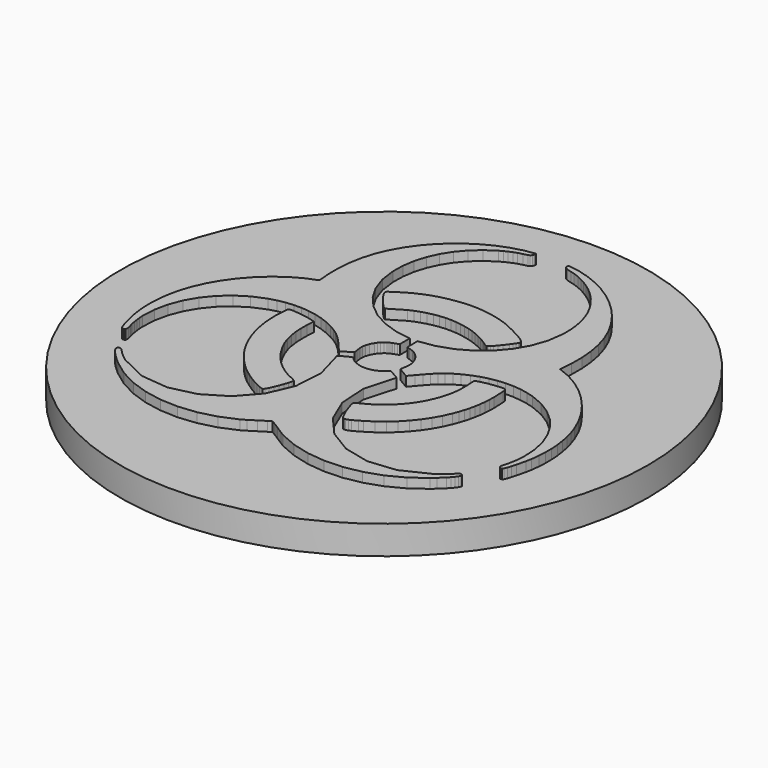
from build123d import *

# Parameters (mm, degrees)
F0_R     = 27.63697
F1_DEPTH = 3
F2_DEPTH = 4


with BuildPart() as f1:
    # F0 (on Top) → F1 (new body)
    with BuildSketch(Plane.XY):
        with Locations((0, -2.31015)):
            Circle(F0_R)
        Polygon((-4.0678, -12.78605), (-4.2083, -12.95365), (-4.6141, -12.82115), (-5.0758, -12.61135), (-5.5709, -12.34255), (-6.0773, -12.03275), (-6.5724, -11.70045), (-7.0339, -11.36375), (-7.4394, -11.04085), (-7.7666, -10.75005), (-8.158, -10.36405), (-8.5195, -9.98235), (-8.8548, -9.59865), (-9.1678, -9.20685), (-9.462, -8.80075), (-9.7412, -8.37425), (-10.0092, -7.92105), (-10.2695, -7.43505), (-10.5888, -6.74735), (-10.864, -6.02315), (-11.0928, -5.27115), (-11.2726, -4.50015), (-11.4012, -3.71865), (-11.4761, -2.93565), (-11.4949, -2.15975), (-11.4553, -1.39965), (-11.4369, -0.98755), (-11.4008, -0.71755), (-11.3427, -0.63335), (-11.24, -0.58155), (-11.0794, -0.56125), (-10.8475, -0.57145), (-10.1953, -0.63745), (-9.6146, -0.71845), (-9.3305, -0.77125), (-9.0395, -0.83575), (-8.7334, -0.91445), (-8.4039, -1.01025), (-8.4429, -1.84595), (-8.4465, -2.62525), (-8.4041, -3.36205), (-8.3049, -4.07025), (-8.1385, -4.76385), (-7.8941, -5.45675), (-7.5611, -6.16275), (-7.129, -6.89575), (-6.9454, -7.16865), (-6.7533, -7.43235), (-6.5523, -7.68705), (-6.3422, -7.93295), (-6.1226, -8.17035), (-5.8932, -8.39975), (-5.6538, -8.62115), (-5.4039, -8.83495), (-4.9871, -9.15835), (-4.6176, -9.41005), (-4.2905, -9.60425), (-4.0009, -9.75525), (-3.7437, -9.87735), (-3.514, -9.98475), (-3.3069, -10.09175), (-3.1174, -10.21255), (-3.1505, -10.44075), (-3.2414, -10.78435), (-3.376, -11.20205), (-3.5401, -11.65235), (-3.7196, -12.09405), (-3.9002, -12.48575), align=None, mode=Mode.SUBTRACT)
        Polygon((-2.2092, -7.81305), (-3.1174, -4.56255), (-2.518, -4.22535), (-2.1541, -4.03765), (-1.9516, -3.97525), (-1.8364, -4.01415), (-1.7344, -4.13025), (-1.5715, -4.29945), (-1.2735, -4.49775), (-0.7664, -4.70095), (-0.5612, -4.75635), (-0.3578, -4.79455), (-0.1556, -4.81575), (0.0458, -4.82015), (0.247, -4.80795), (0.4484, -4.77945), (0.6506, -4.73475), (0.8541, -4.67415), (1.0622, -4.58945), (1.2432, -4.48925), (1.4011, -4.37975), (1.54, -4.26715), (1.7772, -4.05725), (1.9874, -3.90905), (3.12, -4.56255), (2.2047, -7.79225), (2.3985, -10.78755), (3.5115, -13.40705), (5.3538, -15.50965), (7.7356, -16.95425), (10.467, -17.59945), (13.358, -17.30415), (16.2189, -15.92725), (16.4897, -15.72625), (16.7444, -15.51975), (16.9918, -15.30495), (17.241, -15.07895), (17.4731, -14.82385), (17.6984, -14.60375), (17.7577, -14.57755), (17.8244, -14.56485), (17.893, -14.56675), (17.9579, -14.58405), (18.0133, -14.61755), (18.0537, -14.66835), (18.0734, -14.73725), (18.0668, -14.82525), (17.9796, -15.02455), (17.8098, -15.26655), (17.5801, -15.53515), (17.3135, -15.81425), (16.761, -16.34005), (16.3357, -16.71535), (14.7982, -17.83635), (13.1263, -18.70015), (11.3548, -19.30345), (9.5187, -19.64285), (7.6528, -19.71495), (5.7921, -19.51665), (3.9715, -19.04455), (2.2258, -18.29525), (1.7514, -18.00515), (1.0333, -17.54355), (0.671, -17.31275), (0.3534, -17.11625), (0.1157, -16.97995), (-0.0067, -16.92955), (-0.3532, -17.12235), (-1.045, -17.55765), (-1.781, -18.02505), (-2.2604, -18.31405), (-4.0123, -19.05695), (-5.8348, -19.52315), (-7.6942, -19.71595), (-9.5568, -19.63845), (-11.3887, -19.29395), (-13.1563, -18.68545), (-14.8257, -17.81625), (-16.3633, -16.68955), (-16.7904, -16.31295), (-17.337, -15.79155), (-17.599, -15.51405), (-17.8236, -15.24545), (-17.9884, -15.00065), (-18.0708, -14.79465), (-18.072, -14.71475), (-18.0463, -14.65275), (-17.9999, -14.60805), (-17.9387, -14.58005), (-17.8687, -14.56825), (-17.7959, -14.57205), (-17.7264, -14.59095), (-17.6662, -14.62425), (-17.4436, -14.85165), (-17.2099, -15.10475), (-16.9631, -15.32605), (-16.7193, -15.53775), (-16.4688, -15.74195), (-16.202, -15.94085), (-13.3622, -17.30985), (-10.4837, -17.60625), (-7.758, -16.96745), (-5.3763, -15.53115), (-3.53, -13.43495), (-2.4106, -10.81635), align=None, mode=Mode.SUBTRACT)
        Polygon((8.4427, -1.65055), (8.4064, -1.01025), (8.9678, -0.84985), (9.4876, -0.73105), (10.0145, -0.64585), (10.5971, -0.58655), (10.9437, -0.54945), (11.203, -0.55535), (11.2977, -0.60095), (11.3677, -0.68895), (11.4123, -0.83005), (11.4303, -1.03475), (11.4842, -2.26895), (11.4716, -2.84805), (11.4337, -3.40865), (11.3697, -3.95505), (11.2793, -4.49165), (11.1616, -5.02285), (11.0162, -5.55305), (10.8425, -6.08675), (10.6399, -6.62815), (10.2561, -7.47995), (9.7967, -8.29975), (9.2677, -9.08155), (8.675, -9.81925), (8.0247, -10.50685), (7.3227, -11.13835), (6.575, -11.70765), (5.7875, -12.20875), (5.4368, -12.42285), (4.9258, -12.70705), (4.6631, -12.82355), (4.424, -12.89525), (4.2295, -12.90145), (4.101, -12.82125), (3.9914, -12.64275), (3.8786, -12.42925), (3.7658, -12.19115), (3.656, -11.93895), (3.4583, -11.43475), (3.3107, -11.00085), (3.2076, -10.66835), (3.1478, -10.44215), (3.1403, -10.29265), (3.1938, -10.19045), (3.5195, -10.01035), (4.1958, -9.66615), (4.7927, -9.29005), (5.3577, -8.86825), (5.8869, -8.40305), (6.3764, -7.89645), (6.8225, -7.35075), (7.2213, -6.76815), (7.569, -6.15055), (7.8618, -5.50035), (8.0854, -4.88795), (8.25, -4.32735), (8.3628, -3.79995), (8.4312, -3.28725), (8.4624, -2.77045), (8.4638, -2.23115), align=None, mode=Mode.SUBTRACT)
        Polygon((-13.8258, 4.47535), (-12.5995, 4.97545), (-12.7136, 6.36155), (-12.7162, 7.70825), (-12.6, 9.01665), (-12.3578, 10.28815), (-11.9821, 11.52385), (-11.4659, 12.72495), (-10.8017, 13.89285), (-9.9822, 15.02875), (-9.1894, 15.92315), (-8.2998, 16.75485), (-7.327, 17.51125), (-6.2846, 18.17955), (-5.1862, 18.74695), (-4.0453, 19.20065), (-2.8757, 19.52785), (-1.6909, 19.71595), (-1.7057, 19.48035), (-1.778, 19.31055), (-1.8999, 19.19235), (-2.0637, 19.11155), (-2.4851, 19.00545), (-2.9793, 18.87855), (-3.3535, 18.73925), (-3.7244, 18.58005), (-4.0872, 18.40305), (-4.4372, 18.21075), (-5.4836, 17.50345), (-6.4019, 16.68175), (-7.1863, 15.75705), (-7.8312, 14.74065), (-8.3308, 13.64385), (-8.6796, 12.47825), (-8.8718, 11.25515), (-8.9018, 9.98585), (-8.6685, 8.30815), (-8.1332, 6.75965), (-7.3284, 5.36515), (-6.2868, 4.14925), (-5.0409, 3.13645), (-3.6235, 2.35135), (-2.0671, 1.81875), (-0.4043, 1.56305), (-0.4043, 0.24845), (-0.5875, 0.16795), (-0.8407, 0.08485), (-0.9822, 0.03595), (-1.1276, -0.02125), (-1.2723, -0.08915), (-1.4119, -0.17045), (-1.6153, -0.32025), (-1.8038, -0.49195), (-1.9739, -0.68205), (-2.1222, -0.88675), (-2.3398, -1.28925), (-2.4657, -1.66095), (-2.5195, -2.00065), (-2.5208, -2.30745), (-2.4444, -2.81865), (-2.3935, -3.18655), (-3.509, -3.83525), (-3.9999, -3.25675), (-4.4391, -2.74255), (-4.8547, -2.28285), (-5.2749, -1.86755), (-5.7278, -1.48665), (-6.2417, -1.13025), (-6.8447, -0.78835), (-7.565, -0.45105), (-8.32, -0.16845), (-9.0965, 0.04225), (-9.8882, 0.18115), (-10.6892, 0.24835), (-11.493, 0.24395), (-12.2936, 0.16825), (-13.0847, 0.02115), (-13.8602, -0.19705), (-15.2114, -0.77105), (-16.423, -1.53935), (-17.4805, -2.47955), (-18.3696, -3.56955), (-19.0758, -4.78685), (-19.5849, -6.10935), (-19.8824, -7.51445), (-19.954, -8.98015), (-19.9289, -9.41255), (-19.8837, -9.81705), (-19.8213, -10.21855), (-19.7447, -10.64165), (-19.6565, -10.92985), (-19.5543, -11.32205), (-19.5427, -11.50435), (-19.5813, -11.64915), (-19.6879, -11.73535), (-19.8805, -11.74175), (-19.9896, -11.62145), (-20.1147, -11.32885), (-20.247, -10.91665), (-20.378, -10.43745), (-20.6019, -9.48885), (-20.7175, -8.90455), (-20.8144, -8.07885), (-20.8603, -7.25915), (-20.8548, -6.44515), (-20.7977, -5.63685), (-20.6886, -4.83405), (-20.5274, -4.03665), (-20.3137, -3.24435), (-20.0472, -2.45715), (-19.5157, -1.25035), (-18.8404, -0.07965), (-18.036, 1.03325), (-17.1175, 2.06685), (-16.0996, 2.99945), (-14.9975, 3.80945), align=None, mode=Mode.SUBTRACT)
        Polygon((0.4069, 0.24845), (0.4069, 1.56305), (2.0732, 1.81965), (3.6325, 2.35435), (5.0519, 3.14235), (6.2988, 4.15885), (7.3403, 5.37895), (8.1438, 6.77785), (8.6764, 8.33065), (8.9055, 10.01265), (8.9013, 10.88005), (8.8216, 11.73245), (8.6662, 12.56595), (8.4347, 13.37665), (8.1267, 14.16075), (7.7418, 14.91455), (7.2796, 15.63395), (6.7399, 16.31525), (6.3463, 16.73745), (5.9251, 17.13605), (5.4785, 17.50865), (5.0087, 17.85265), (4.5178, 18.16565), (4.008, 18.44495), (3.4813, 18.68815), (2.9401, 18.89265), (2.5125, 19.00135), (2.0461, 19.13365), (1.8548, 19.22785), (1.7215, 19.35075), (1.6688, 19.51015), (1.7192, 19.71365), (2.9108, 19.51855), (4.0804, 19.18825), (5.2167, 18.73445), (6.3082, 18.16855), (7.3435, 17.50195), (8.311, 16.74625), (9.1994, 15.91295), (9.9973, 15.01345), (10.8131, 13.88415), (11.4741, 12.71825), (11.9877, 11.51605), (12.3613, 10.27795), (12.6022, 9.00445), (12.7177, 7.69595), (12.7152, 6.35285), (12.6021, 4.97545), (13.8299, 4.47485), (15.0017, 3.80895), (16.1031, 2.99915), (17.1197, 2.06695), (18.0371, 1.03375), (18.8409, -0.07905), (19.5165, -1.24985), (20.0497, -2.45725), (20.317, -3.24455), (20.5306, -4.03685), (20.691, -4.83415), (20.7989, -5.63685), (20.8551, -6.44505), (20.8603, -7.25895), (20.8151, -8.07875), (20.7202, -8.90465), (20.6047, -9.48855), (20.38, -10.43725), (20.2486, -10.91655), (20.1161, -11.32895), (19.9914, -11.62155), (19.8831, -11.74175), (19.6898, -11.73465), (19.5831, -11.64605), (19.5448, -11.49775), (19.557, -11.31125), (19.6606, -10.91065), (19.7497, -10.61735), (19.825, -10.20095), (19.887, -9.80515), (19.9322, -9.40635), (19.9569, -8.98055), (19.884, -7.51445), (19.5861, -6.10915), (19.0773, -4.78675), (18.3716, -3.56955), (17.4833, -2.47975), (16.4263, -1.53965), (15.2148, -0.77125), (13.8628, -0.19705), (13.0852, 0.02195), (12.2937, 0.16915), (11.4941, 0.24475), (10.6918, 0.24865), (9.8925, 0.18095), (9.1016, 0.04175), (8.3248, -0.16905), (7.5677, -0.45125), (6.8483, -0.78665), (6.2453, -1.12805), (5.7309, -1.48475), (5.2774, -1.86635), (4.8568, -2.28215), (4.4414, -2.74165), (4.0034, -3.25435), (3.5149, -3.82955), (2.3987, -3.18205), (2.4478, -2.81545), (2.524, -2.31015), (2.5229, -2.00565), (2.4691, -1.66685), (2.3431, -1.29375), (2.1249, -0.88655), (1.8894, -0.57355), (1.6418, -0.33545), (1.3911, -0.15915), (1.1464, -0.03175), (0.7107, 0.12825), align=None, mode=Mode.SUBTRACT)
        Polygon((-1.5318, 9.09665), (-0.7372, 9.18325), (-0.1638, 9.21165), (0.4187, 9.20585), (1.0059, 9.16745), (1.5935, 9.09795), (2.1771, 8.99905), (2.7524, 8.87225), (3.3151, 8.71915), (3.8609, 8.54135), (4.1317, 8.43155), (4.5733, 8.23455), (5.1197, 7.97545), (5.7053, 7.67955), (6.2642, 7.37185), (6.7306, 7.07755), (7.0388, 6.82155), (7.1229, 6.62925), (7.0551, 6.48075), (6.9413, 6.29145), (6.7947, 6.07545), (6.6285, 5.84675), (6.2894, 5.40775), (6.0292, 5.08705), (5.783, 4.79195), (5.6004, 4.58935), (5.4595, 4.47075), (5.3383, 4.42805), (5.2151, 4.45265), (5.0679, 4.53625), (4.8748, 4.67055), (4.6141, 4.84725), (4.1507, 5.12775), (3.6874, 5.37065), (3.2209, 5.57825), (2.7475, 5.75335), (2.2637, 5.89835), (1.7661, 6.01595), (1.251, 6.10845), (0.715, 6.17865), (0.1633, 6.21525), (-0.3994, 6.20755), (-0.9672, 6.15815), (-1.5343, 6.06935), (-2.0948, 5.94365), (-2.643, 5.78345), (-3.1731, 5.59115), (-3.6791, 5.36925), (-5.2911, 4.39905), (-5.3922, 4.44905), (-5.5439, 4.57795), (-5.7288, 4.76285), (-5.9294, 4.98055), (-6.3087, 5.42195), (-6.5428, 5.71775), (-6.8066, 6.09445), (-6.9814, 6.37055), (-7.0743, 6.56815), (-7.0923, 6.70945), (-7.0425, 6.81665), (-6.9319, 6.91195), (-6.7675, 7.01755), (-6.5564, 7.15575), (-5.887, 7.58955), (-5.2036, 7.96795), (-4.505, 8.29295), (-3.7899, 8.56635), (-3.0568, 8.79015), (-2.3046, 8.96635), align=None, mode=Mode.SUBTRACT)
        Polygon((-12.7136, 6.36155), (-12.5995, 4.97545), (-13.8258, 4.47535), (-14.9975, 3.80945), (-16.0996, 2.99945), (-17.1175, 2.06685), (-18.036, 1.03325), (-18.8404, -0.07965), (-19.5157, -1.25035), (-20.0472, -2.45715), (-20.3137, -3.24435), (-20.5274, -4.03665), (-20.6886, -4.83405), (-20.7977, -5.63685), (-20.8548, -6.44515), (-20.8603, -7.25915), (-20.8144, -8.07885), (-20.7175, -8.90455), (-20.6019, -9.48885), (-20.378, -10.43745), (-20.247, -10.91665), (-20.1147, -11.32885), (-19.9896, -11.62145), (-19.8805, -11.74175), (-19.6879, -11.73535), (-19.5813, -11.64915), (-19.5427, -11.50435), (-19.5543, -11.32205), (-19.6565, -10.92985), (-19.7447, -10.64165), (-19.8213, -10.21855), (-19.8837, -9.81705), (-19.9289, -9.41255), (-19.954, -8.98015), (-19.8824, -7.51445), (-19.5849, -6.10935), (-19.0758, -4.78685), (-18.3696, -3.56955), (-17.4805, -2.47955), (-16.423, -1.53935), (-15.2114, -0.77105), (-13.8602, -0.19705), (-13.0847, 0.02115), (-12.2936, 0.16825), (-11.493, 0.24395), (-10.6892, 0.24835), (-9.8882, 0.18115), (-9.0965, 0.04225), (-8.32, -0.16845), (-7.565, -0.45105), (-6.8447, -0.78835), (-6.2417, -1.13025), (-5.7278, -1.48665), (-5.2749, -1.86755), (-4.8547, -2.28285), (-4.4391, -2.74255), (-3.9999, -3.25675), (-3.509, -3.83525), (-2.3935, -3.18655), (-2.4444, -2.81865), (-2.5208, -2.30745), (-2.5195, -2.00065), (-2.4657, -1.66095), (-2.3398, -1.28925), (-2.1222, -0.88675), (-1.9739, -0.68205), (-1.8038, -0.49195), (-1.6153, -0.32025), (-1.4119, -0.17045), (-1.2723, -0.08915), (-1.1276, -0.02125), (-0.9822, 0.03595), (-0.8407, 0.08485), (-0.5875, 0.16795), (-0.4043, 0.24845), (-0.4043, 1.56305), (-2.0671, 1.81875), (-3.6235, 2.35135), (-5.0409, 3.13645), (-6.2868, 4.14925), (-7.3284, 5.36515), (-8.1332, 6.75965), (-8.6685, 8.30815), (-8.9018, 9.98585), (-8.8718, 11.25515), (-8.6796, 12.47825), (-8.3308, 13.64385), (-7.8312, 14.74065), (-7.1863, 15.75705), (-6.4019, 16.68175), (-5.4836, 17.50345), (-4.4372, 18.21075), (-4.0872, 18.40305), (-3.7244, 18.58005), (-3.3535, 18.73925), (-2.9793, 18.87855), (-2.4851, 19.00545), (-2.0637, 19.11155), (-1.8999, 19.19235), (-1.778, 19.31055), (-1.7057, 19.48035), (-1.6909, 19.71595), (-2.8757, 19.52785), (-4.0453, 19.20065), (-5.1862, 18.74695), (-6.2846, 18.17955), (-7.327, 17.51125), (-8.2998, 16.75485), (-9.1894, 15.92315), (-9.9822, 15.02875), (-10.8017, 13.89285), (-11.4659, 12.72495), (-11.9821, 11.52385), (-12.3578, 10.28815), (-12.6, 9.01665), (-12.7162, 7.70825), align=None)
        Polygon((-0.1638, 9.21165), (-0.7372, 9.18325), (-1.5318, 9.09665), (-2.3046, 8.96635), (-3.0568, 8.79015), (-3.7899, 8.56635), (-4.505, 8.29295), (-5.2036, 7.96795), (-5.887, 7.58955), (-6.5564, 7.15575), (-6.7675, 7.01755), (-6.9319, 6.91195), (-7.0425, 6.81665), (-7.0923, 6.70945), (-7.0743, 6.56815), (-6.9814, 6.37055), (-6.8066, 6.09445), (-6.5428, 5.71775), (-6.3087, 5.42195), (-5.9294, 4.98055), (-5.7288, 4.76285), (-5.5439, 4.57795), (-5.3922, 4.44905), (-5.2911, 4.39905), (-3.6791, 5.36925), (-3.1731, 5.59115), (-2.643, 5.78345), (-2.0948, 5.94365), (-1.5343, 6.06935), (-0.9672, 6.15815), (-0.3994, 6.20755), (0.1633, 6.21525), (0.715, 6.17865), (1.251, 6.10845), (1.7661, 6.01595), (2.2637, 5.89835), (2.7475, 5.75335), (3.2209, 5.57825), (3.6874, 5.37065), (4.1507, 5.12775), (4.6141, 4.84725), (4.8748, 4.67055), (5.0679, 4.53625), (5.2151, 4.45265), (5.3383, 4.42805), (5.4595, 4.47075), (5.6004, 4.58935), (5.783, 4.79195), (6.0292, 5.08705), (6.2894, 5.40775), (6.6285, 5.84675), (6.7947, 6.07545), (6.9413, 6.29145), (7.0551, 6.48075), (7.1229, 6.62925), (7.0388, 6.82155), (6.7306, 7.07755), (6.2642, 7.37185), (5.7053, 7.67955), (5.1197, 7.97545), (4.5733, 8.23455), (4.1317, 8.43155), (3.8609, 8.54135), (3.3151, 8.71915), (2.7524, 8.87225), (2.1771, 8.99905), (1.5935, 9.09795), (1.0059, 9.16745), (0.4187, 9.20585), align=None)
        Polygon((2.0732, 1.81965), (0.4069, 1.56305), (0.4069, 0.24845), (0.7107, 0.12825), (1.1464, -0.03175), (1.3911, -0.15915), (1.6418, -0.33545), (1.8894, -0.57355), (2.1249, -0.88655), (2.3431, -1.29375), (2.4691, -1.66685), (2.5229, -2.00565), (2.524, -2.31015), (2.4478, -2.81545), (2.3987, -3.18205), (3.5149, -3.82955), (4.0034, -3.25435), (4.4414, -2.74165), (4.8568, -2.28215), (5.2774, -1.86635), (5.7309, -1.48475), (6.2453, -1.12805), (6.8483, -0.78665), (7.5677, -0.45125), (8.3248, -0.16905), (9.1016, 0.04175), (9.8925, 0.18095), (10.6918, 0.24865), (11.4941, 0.24475), (12.2937, 0.16915), (13.0852, 0.02195), (13.8628, -0.19705), (15.2148, -0.77125), (16.4263, -1.53965), (17.4833, -2.47975), (18.3716, -3.56955), (19.0773, -4.78675), (19.5861, -6.10915), (19.884, -7.51445), (19.9569, -8.98055), (19.9322, -9.40635), (19.887, -9.80515), (19.825, -10.20095), (19.7497, -10.61735), (19.6606, -10.91065), (19.557, -11.31125), (19.5448, -11.49775), (19.5831, -11.64605), (19.6898, -11.73465), (19.8831, -11.74175), (19.9914, -11.62155), (20.1161, -11.32895), (20.2486, -10.91655), (20.38, -10.43725), (20.6047, -9.48855), (20.7202, -8.90465), (20.8151, -8.07875), (20.8603, -7.25895), (20.8551, -6.44505), (20.7989, -5.63685), (20.691, -4.83415), (20.5306, -4.03685), (20.317, -3.24455), (20.0497, -2.45725), (19.5165, -1.24985), (18.8409, -0.07905), (18.0371, 1.03375), (17.1197, 2.06695), (16.1031, 2.99915), (15.0017, 3.80895), (13.8299, 4.47485), (12.6021, 4.97545), (12.7152, 6.35285), (12.7177, 7.69595), (12.6022, 9.00445), (12.3613, 10.27795), (11.9877, 11.51605), (11.4741, 12.71825), (10.8131, 13.88415), (9.9973, 15.01345), (9.1994, 15.91295), (8.311, 16.74625), (7.3435, 17.50195), (6.3082, 18.16855), (5.2167, 18.73445), (4.0804, 19.18825), (2.9108, 19.51855), (1.7192, 19.71365), (1.6688, 19.51015), (1.7215, 19.35075), (1.8548, 19.22785), (2.0461, 19.13365), (2.5125, 19.00135), (2.9401, 18.89265), (3.4813, 18.68815), (4.008, 18.44495), (4.5178, 18.16565), (5.0087, 17.85265), (5.4785, 17.50865), (5.9251, 17.13605), (6.3463, 16.73745), (6.7399, 16.31525), (7.2796, 15.63395), (7.7418, 14.91455), (8.1267, 14.16075), (8.4347, 13.37665), (8.6662, 12.56595), (8.8216, 11.73245), (8.9013, 10.88005), (8.9055, 10.01265), (8.6764, 8.33065), (8.1438, 6.77785), (7.3403, 5.37895), (6.2988, 4.15885), (5.0519, 3.14235), (3.6325, 2.35435), align=None)
        Polygon((8.9678, -0.84985), (8.4064, -1.01025), (8.4427, -1.65055), (8.4638, -2.23115), (8.4624, -2.77045), (8.4312, -3.28725), (8.3628, -3.79995), (8.25, -4.32735), (8.0854, -4.88795), (7.8618, -5.50035), (7.569, -6.15055), (7.2213, -6.76815), (6.8225, -7.35075), (6.3764, -7.89645), (5.8869, -8.40305), (5.3577, -8.86825), (4.7927, -9.29005), (4.1958, -9.66615), (3.5195, -10.01035), (3.1938, -10.19045), (3.1403, -10.29265), (3.1478, -10.44215), (3.2076, -10.66835), (3.3107, -11.00085), (3.4583, -11.43475), (3.656, -11.93895), (3.7658, -12.19115), (3.8786, -12.42925), (3.9914, -12.64275), (4.101, -12.82125), (4.2295, -12.90145), (4.424, -12.89525), (4.6631, -12.82355), (4.9258, -12.70705), (5.4368, -12.42285), (5.7875, -12.20875), (6.575, -11.70765), (7.3227, -11.13835), (8.0247, -10.50685), (8.675, -9.81925), (9.2677, -9.08155), (9.7967, -8.29975), (10.2561, -7.47995), (10.6399, -6.62815), (10.8425, -6.08675), (11.0162, -5.55305), (11.1616, -5.02285), (11.2793, -4.49165), (11.3697, -3.95505), (11.4337, -3.40865), (11.4716, -2.84805), (11.4842, -2.26895), (11.4303, -1.03475), (11.4123, -0.83005), (11.3677, -0.68895), (11.2977, -0.60095), (11.203, -0.55535), (10.9437, -0.54945), (10.5971, -0.58655), (10.0145, -0.64585), (9.4876, -0.73105), align=None)
        Polygon((-2.518, -4.22535), (-3.1174, -4.56255), (-2.2092, -7.81305), (-2.4106, -10.81635), (-3.53, -13.43495), (-5.3763, -15.53115), (-7.758, -16.96745), (-10.4837, -17.60625), (-13.3622, -17.30985), (-16.202, -15.94085), (-16.4688, -15.74195), (-16.7193, -15.53775), (-16.9631, -15.32605), (-17.2099, -15.10475), (-17.4436, -14.85165), (-17.6662, -14.62425), (-17.7264, -14.59095), (-17.7959, -14.57205), (-17.8687, -14.56825), (-17.9387, -14.58005), (-17.9999, -14.60805), (-18.0463, -14.65275), (-18.072, -14.71475), (-18.0708, -14.79465), (-17.9884, -15.00065), (-17.8236, -15.24545), (-17.599, -15.51405), (-17.337, -15.79155), (-16.7904, -16.31295), (-16.3633, -16.68955), (-14.8257, -17.81625), (-13.1563, -18.68545), (-11.3887, -19.29395), (-9.5568, -19.63845), (-7.6942, -19.71595), (-5.8348, -19.52315), (-4.0123, -19.05695), (-2.2604, -18.31405), (-1.781, -18.02505), (-1.045, -17.55765), (-0.3532, -17.12235), (-0.0067, -16.92955), (0.1157, -16.97995), (0.3534, -17.11625), (0.671, -17.31275), (1.0333, -17.54355), (1.7514, -18.00515), (2.2258, -18.29525), (3.9715, -19.04455), (5.7921, -19.51665), (7.6528, -19.71495), (9.5187, -19.64285), (11.3548, -19.30345), (13.1263, -18.70015), (14.7982, -17.83635), (16.3357, -16.71535), (16.761, -16.34005), (17.3135, -15.81425), (17.5801, -15.53515), (17.8098, -15.26655), (17.9796, -15.02455), (18.0668, -14.82525), (18.0734, -14.73725), (18.0537, -14.66835), (18.0133, -14.61755), (17.9579, -14.58405), (17.893, -14.56675), (17.8244, -14.56485), (17.7577, -14.57755), (17.6984, -14.60375), (17.4731, -14.82385), (17.241, -15.07895), (16.9918, -15.30495), (16.7444, -15.51975), (16.4897, -15.72625), (16.2189, -15.92725), (13.358, -17.30415), (10.467, -17.59945), (7.7356, -16.95425), (5.3538, -15.50965), (3.5115, -13.40705), (2.3985, -10.78755), (2.2047, -7.79225), (3.12, -4.56255), (1.9874, -3.90905), (1.7772, -4.05725), (1.54, -4.26715), (1.4011, -4.37975), (1.2432, -4.48925), (1.0622, -4.58945), (0.8541, -4.67415), (0.6506, -4.73475), (0.4484, -4.77945), (0.247, -4.80795), (0.0458, -4.82015), (-0.1556, -4.81575), (-0.3578, -4.79455), (-0.5612, -4.75635), (-0.7664, -4.70095), (-1.2735, -4.49775), (-1.5715, -4.29945), (-1.7344, -4.13025), (-1.8364, -4.01415), (-1.9516, -3.97525), (-2.1541, -4.03765), align=None)
        Polygon((-4.6141, -12.82115), (-4.2083, -12.95365), (-4.0678, -12.78605), (-3.9002, -12.48575), (-3.7196, -12.09405), (-3.5401, -11.65235), (-3.376, -11.20205), (-3.2414, -10.78435), (-3.1505, -10.44075), (-3.1174, -10.21255), (-3.3069, -10.09175), (-3.514, -9.98475), (-3.7437, -9.87735), (-4.0009, -9.75525), (-4.2905, -9.60425), (-4.6176, -9.41005), (-4.9871, -9.15835), (-5.4039, -8.83495), (-5.6538, -8.62115), (-5.8932, -8.39975), (-6.1226, -8.17035), (-6.3422, -7.93295), (-6.5523, -7.68705), (-6.7533, -7.43235), (-6.9454, -7.16865), (-7.129, -6.89575), (-7.5611, -6.16275), (-7.8941, -5.45675), (-8.1385, -4.76385), (-8.3049, -4.07025), (-8.4041, -3.36205), (-8.4465, -2.62525), (-8.4429, -1.84595), (-8.4039, -1.01025), (-8.7334, -0.91445), (-9.0395, -0.83575), (-9.3305, -0.77125), (-9.6146, -0.71845), (-10.1953, -0.63745), (-10.8475, -0.57145), (-11.0794, -0.56125), (-11.24, -0.58155), (-11.3427, -0.63335), (-11.4008, -0.71755), (-11.4369, -0.98755), (-11.4553, -1.39965), (-11.4949, -2.15975), (-11.4761, -2.93565), (-11.4012, -3.71865), (-11.2726, -4.50015), (-11.0928, -5.27115), (-10.864, -6.02315), (-10.5888, -6.74735), (-10.2695, -7.43505), (-10.0092, -7.92105), (-9.7412, -8.37425), (-9.462, -8.80075), (-9.1678, -9.20685), (-8.8548, -9.59865), (-8.5195, -9.98235), (-8.158, -10.36405), (-7.7666, -10.75005), (-7.4394, -11.04085), (-7.0339, -11.36375), (-6.5724, -11.70045), (-6.0773, -12.03275), (-5.5709, -12.34255), (-5.0758, -12.61135), align=None)
    extrude(amount=F1_DEPTH)

    # F0 (on Top) → F2 (join)
    with BuildSketch(Plane.XY):
        Polygon((2.0732, 1.81965), (0.4069, 1.56305), (0.4069, 0.24845), (0.7107, 0.12825), (1.1464, -0.03175), (1.3911, -0.15915), (1.6418, -0.33545), (1.8894, -0.57355), (2.1249, -0.88655), (2.3431, -1.29375), (2.4691, -1.66685), (2.5229, -2.00565), (2.524, -2.31015), (2.4478, -2.81545), (2.3987, -3.18205), (3.5149, -3.82955), (4.0034, -3.25435), (4.4414, -2.74165), (4.8568, -2.28215), (5.2774, -1.86635), (5.7309, -1.48475), (6.2453, -1.12805), (6.8483, -0.78665), (7.5677, -0.45125), (8.3248, -0.16905), (9.1016, 0.04175), (9.8925, 0.18095), (10.6918, 0.24865), (11.4941, 0.24475), (12.2937, 0.16915), (13.0852, 0.02195), (13.8628, -0.19705), (15.2148, -0.77125), (16.4263, -1.53965), (17.4833, -2.47975), (18.3716, -3.56955), (19.0773, -4.78675), (19.5861, -6.10915), (19.884, -7.51445), (19.9569, -8.98055), (19.9322, -9.40635), (19.887, -9.80515), (19.825, -10.20095), (19.7497, -10.61735), (19.6606, -10.91065), (19.557, -11.31125), (19.5448, -11.49775), (19.5831, -11.64605), (19.6898, -11.73465), (19.8831, -11.74175), (19.9914, -11.62155), (20.1161, -11.32895), (20.2486, -10.91655), (20.38, -10.43725), (20.6047, -9.48855), (20.7202, -8.90465), (20.8151, -8.07875), (20.8603, -7.25895), (20.8551, -6.44505), (20.7989, -5.63685), (20.691, -4.83415), (20.5306, -4.03685), (20.317, -3.24455), (20.0497, -2.45725), (19.5165, -1.24985), (18.8409, -0.07905), (18.0371, 1.03375), (17.1197, 2.06695), (16.1031, 2.99915), (15.0017, 3.80895), (13.8299, 4.47485), (12.6021, 4.97545), (12.7152, 6.35285), (12.7177, 7.69595), (12.6022, 9.00445), (12.3613, 10.27795), (11.9877, 11.51605), (11.4741, 12.71825), (10.8131, 13.88415), (9.9973, 15.01345), (9.1994, 15.91295), (8.311, 16.74625), (7.3435, 17.50195), (6.3082, 18.16855), (5.2167, 18.73445), (4.0804, 19.18825), (2.9108, 19.51855), (1.7192, 19.71365), (1.6688, 19.51015), (1.7215, 19.35075), (1.8548, 19.22785), (2.0461, 19.13365), (2.5125, 19.00135), (2.9401, 18.89265), (3.4813, 18.68815), (4.008, 18.44495), (4.5178, 18.16565), (5.0087, 17.85265), (5.4785, 17.50865), (5.9251, 17.13605), (6.3463, 16.73745), (6.7399, 16.31525), (7.2796, 15.63395), (7.7418, 14.91455), (8.1267, 14.16075), (8.4347, 13.37665), (8.6662, 12.56595), (8.8216, 11.73245), (8.9013, 10.88005), (8.9055, 10.01265), (8.6764, 8.33065), (8.1438, 6.77785), (7.3403, 5.37895), (6.2988, 4.15885), (5.0519, 3.14235), (3.6325, 2.35435), align=None)
        Polygon((8.9678, -0.84985), (8.4064, -1.01025), (8.4427, -1.65055), (8.4638, -2.23115), (8.4624, -2.77045), (8.4312, -3.28725), (8.3628, -3.79995), (8.25, -4.32735), (8.0854, -4.88795), (7.8618, -5.50035), (7.569, -6.15055), (7.2213, -6.76815), (6.8225, -7.35075), (6.3764, -7.89645), (5.8869, -8.40305), (5.3577, -8.86825), (4.7927, -9.29005), (4.1958, -9.66615), (3.5195, -10.01035), (3.1938, -10.19045), (3.1403, -10.29265), (3.1478, -10.44215), (3.2076, -10.66835), (3.3107, -11.00085), (3.4583, -11.43475), (3.656, -11.93895), (3.7658, -12.19115), (3.8786, -12.42925), (3.9914, -12.64275), (4.101, -12.82125), (4.2295, -12.90145), (4.424, -12.89525), (4.6631, -12.82355), (4.9258, -12.70705), (5.4368, -12.42285), (5.7875, -12.20875), (6.575, -11.70765), (7.3227, -11.13835), (8.0247, -10.50685), (8.675, -9.81925), (9.2677, -9.08155), (9.7967, -8.29975), (10.2561, -7.47995), (10.6399, -6.62815), (10.8425, -6.08675), (11.0162, -5.55305), (11.1616, -5.02285), (11.2793, -4.49165), (11.3697, -3.95505), (11.4337, -3.40865), (11.4716, -2.84805), (11.4842, -2.26895), (11.4303, -1.03475), (11.4123, -0.83005), (11.3677, -0.68895), (11.2977, -0.60095), (11.203, -0.55535), (10.9437, -0.54945), (10.5971, -0.58655), (10.0145, -0.64585), (9.4876, -0.73105), align=None)
        Polygon((-2.518, -4.22535), (-3.1174, -4.56255), (-2.2092, -7.81305), (-2.4106, -10.81635), (-3.53, -13.43495), (-5.3763, -15.53115), (-7.758, -16.96745), (-10.4837, -17.60625), (-13.3622, -17.30985), (-16.202, -15.94085), (-16.4688, -15.74195), (-16.7193, -15.53775), (-16.9631, -15.32605), (-17.2099, -15.10475), (-17.4436, -14.85165), (-17.6662, -14.62425), (-17.7264, -14.59095), (-17.7959, -14.57205), (-17.8687, -14.56825), (-17.9387, -14.58005), (-17.9999, -14.60805), (-18.0463, -14.65275), (-18.072, -14.71475), (-18.0708, -14.79465), (-17.9884, -15.00065), (-17.8236, -15.24545), (-17.599, -15.51405), (-17.337, -15.79155), (-16.7904, -16.31295), (-16.3633, -16.68955), (-14.8257, -17.81625), (-13.1563, -18.68545), (-11.3887, -19.29395), (-9.5568, -19.63845), (-7.6942, -19.71595), (-5.8348, -19.52315), (-4.0123, -19.05695), (-2.2604, -18.31405), (-1.781, -18.02505), (-1.045, -17.55765), (-0.3532, -17.12235), (-0.0067, -16.92955), (0.1157, -16.97995), (0.3534, -17.11625), (0.671, -17.31275), (1.0333, -17.54355), (1.7514, -18.00515), (2.2258, -18.29525), (3.9715, -19.04455), (5.7921, -19.51665), (7.6528, -19.71495), (9.5187, -19.64285), (11.3548, -19.30345), (13.1263, -18.70015), (14.7982, -17.83635), (16.3357, -16.71535), (16.761, -16.34005), (17.3135, -15.81425), (17.5801, -15.53515), (17.8098, -15.26655), (17.9796, -15.02455), (18.0668, -14.82525), (18.0734, -14.73725), (18.0537, -14.66835), (18.0133, -14.61755), (17.9579, -14.58405), (17.893, -14.56675), (17.8244, -14.56485), (17.7577, -14.57755), (17.6984, -14.60375), (17.4731, -14.82385), (17.241, -15.07895), (16.9918, -15.30495), (16.7444, -15.51975), (16.4897, -15.72625), (16.2189, -15.92725), (13.358, -17.30415), (10.467, -17.59945), (7.7356, -16.95425), (5.3538, -15.50965), (3.5115, -13.40705), (2.3985, -10.78755), (2.2047, -7.79225), (3.12, -4.56255), (1.9874, -3.90905), (1.7772, -4.05725), (1.54, -4.26715), (1.4011, -4.37975), (1.2432, -4.48925), (1.0622, -4.58945), (0.8541, -4.67415), (0.6506, -4.73475), (0.4484, -4.77945), (0.247, -4.80795), (0.0458, -4.82015), (-0.1556, -4.81575), (-0.3578, -4.79455), (-0.5612, -4.75635), (-0.7664, -4.70095), (-1.2735, -4.49775), (-1.5715, -4.29945), (-1.7344, -4.13025), (-1.8364, -4.01415), (-1.9516, -3.97525), (-2.1541, -4.03765), align=None)
        Polygon((-4.6141, -12.82115), (-4.2083, -12.95365), (-4.0678, -12.78605), (-3.9002, -12.48575), (-3.7196, -12.09405), (-3.5401, -11.65235), (-3.376, -11.20205), (-3.2414, -10.78435), (-3.1505, -10.44075), (-3.1174, -10.21255), (-3.3069, -10.09175), (-3.514, -9.98475), (-3.7437, -9.87735), (-4.0009, -9.75525), (-4.2905, -9.60425), (-4.6176, -9.41005), (-4.9871, -9.15835), (-5.4039, -8.83495), (-5.6538, -8.62115), (-5.8932, -8.39975), (-6.1226, -8.17035), (-6.3422, -7.93295), (-6.5523, -7.68705), (-6.7533, -7.43235), (-6.9454, -7.16865), (-7.129, -6.89575), (-7.5611, -6.16275), (-7.8941, -5.45675), (-8.1385, -4.76385), (-8.3049, -4.07025), (-8.4041, -3.36205), (-8.4465, -2.62525), (-8.4429, -1.84595), (-8.4039, -1.01025), (-8.7334, -0.91445), (-9.0395, -0.83575), (-9.3305, -0.77125), (-9.6146, -0.71845), (-10.1953, -0.63745), (-10.8475, -0.57145), (-11.0794, -0.56125), (-11.24, -0.58155), (-11.3427, -0.63335), (-11.4008, -0.71755), (-11.4369, -0.98755), (-11.4553, -1.39965), (-11.4949, -2.15975), (-11.4761, -2.93565), (-11.4012, -3.71865), (-11.2726, -4.50015), (-11.0928, -5.27115), (-10.864, -6.02315), (-10.5888, -6.74735), (-10.2695, -7.43505), (-10.0092, -7.92105), (-9.7412, -8.37425), (-9.462, -8.80075), (-9.1678, -9.20685), (-8.8548, -9.59865), (-8.5195, -9.98235), (-8.158, -10.36405), (-7.7666, -10.75005), (-7.4394, -11.04085), (-7.0339, -11.36375), (-6.5724, -11.70045), (-6.0773, -12.03275), (-5.5709, -12.34255), (-5.0758, -12.61135), align=None)
        Polygon((-12.7136, 6.36155), (-12.5995, 4.97545), (-13.8258, 4.47535), (-14.9975, 3.80945), (-16.0996, 2.99945), (-17.1175, 2.06685), (-18.036, 1.03325), (-18.8404, -0.07965), (-19.5157, -1.25035), (-20.0472, -2.45715), (-20.3137, -3.24435), (-20.5274, -4.03665), (-20.6886, -4.83405), (-20.7977, -5.63685), (-20.8548, -6.44515), (-20.8603, -7.25915), (-20.8144, -8.07885), (-20.7175, -8.90455), (-20.6019, -9.48885), (-20.378, -10.43745), (-20.247, -10.91665), (-20.1147, -11.32885), (-19.9896, -11.62145), (-19.8805, -11.74175), (-19.6879, -11.73535), (-19.5813, -11.64915), (-19.5427, -11.50435), (-19.5543, -11.32205), (-19.6565, -10.92985), (-19.7447, -10.64165), (-19.8213, -10.21855), (-19.8837, -9.81705), (-19.9289, -9.41255), (-19.954, -8.98015), (-19.8824, -7.51445), (-19.5849, -6.10935), (-19.0758, -4.78685), (-18.3696, -3.56955), (-17.4805, -2.47955), (-16.423, -1.53935), (-15.2114, -0.77105), (-13.8602, -0.19705), (-13.0847, 0.02115), (-12.2936, 0.16825), (-11.493, 0.24395), (-10.6892, 0.24835), (-9.8882, 0.18115), (-9.0965, 0.04225), (-8.32, -0.16845), (-7.565, -0.45105), (-6.8447, -0.78835), (-6.2417, -1.13025), (-5.7278, -1.48665), (-5.2749, -1.86755), (-4.8547, -2.28285), (-4.4391, -2.74255), (-3.9999, -3.25675), (-3.509, -3.83525), (-2.3935, -3.18655), (-2.4444, -2.81865), (-2.5208, -2.30745), (-2.5195, -2.00065), (-2.4657, -1.66095), (-2.3398, -1.28925), (-2.1222, -0.88675), (-1.9739, -0.68205), (-1.8038, -0.49195), (-1.6153, -0.32025), (-1.4119, -0.17045), (-1.2723, -0.08915), (-1.1276, -0.02125), (-0.9822, 0.03595), (-0.8407, 0.08485), (-0.5875, 0.16795), (-0.4043, 0.24845), (-0.4043, 1.56305), (-2.0671, 1.81875), (-3.6235, 2.35135), (-5.0409, 3.13645), (-6.2868, 4.14925), (-7.3284, 5.36515), (-8.1332, 6.75965), (-8.6685, 8.30815), (-8.9018, 9.98585), (-8.8718, 11.25515), (-8.6796, 12.47825), (-8.3308, 13.64385), (-7.8312, 14.74065), (-7.1863, 15.75705), (-6.4019, 16.68175), (-5.4836, 17.50345), (-4.4372, 18.21075), (-4.0872, 18.40305), (-3.7244, 18.58005), (-3.3535, 18.73925), (-2.9793, 18.87855), (-2.4851, 19.00545), (-2.0637, 19.11155), (-1.8999, 19.19235), (-1.778, 19.31055), (-1.7057, 19.48035), (-1.6909, 19.71595), (-2.8757, 19.52785), (-4.0453, 19.20065), (-5.1862, 18.74695), (-6.2846, 18.17955), (-7.327, 17.51125), (-8.2998, 16.75485), (-9.1894, 15.92315), (-9.9822, 15.02875), (-10.8017, 13.89285), (-11.4659, 12.72495), (-11.9821, 11.52385), (-12.3578, 10.28815), (-12.6, 9.01665), (-12.7162, 7.70825), align=None)
        Polygon((-0.1638, 9.21165), (-0.7372, 9.18325), (-1.5318, 9.09665), (-2.3046, 8.96635), (-3.0568, 8.79015), (-3.7899, 8.56635), (-4.505, 8.29295), (-5.2036, 7.96795), (-5.887, 7.58955), (-6.5564, 7.15575), (-6.7675, 7.01755), (-6.9319, 6.91195), (-7.0425, 6.81665), (-7.0923, 6.70945), (-7.0743, 6.56815), (-6.9814, 6.37055), (-6.8066, 6.09445), (-6.5428, 5.71775), (-6.3087, 5.42195), (-5.9294, 4.98055), (-5.7288, 4.76285), (-5.5439, 4.57795), (-5.3922, 4.44905), (-5.2911, 4.39905), (-3.6791, 5.36925), (-3.1731, 5.59115), (-2.643, 5.78345), (-2.0948, 5.94365), (-1.5343, 6.06935), (-0.9672, 6.15815), (-0.3994, 6.20755), (0.1633, 6.21525), (0.715, 6.17865), (1.251, 6.10845), (1.7661, 6.01595), (2.2637, 5.89835), (2.7475, 5.75335), (3.2209, 5.57825), (3.6874, 5.37065), (4.1507, 5.12775), (4.6141, 4.84725), (4.8748, 4.67055), (5.0679, 4.53625), (5.2151, 4.45265), (5.3383, 4.42805), (5.4595, 4.47075), (5.6004, 4.58935), (5.783, 4.79195), (6.0292, 5.08705), (6.2894, 5.40775), (6.6285, 5.84675), (6.7947, 6.07545), (6.9413, 6.29145), (7.0551, 6.48075), (7.1229, 6.62925), (7.0388, 6.82155), (6.7306, 7.07755), (6.2642, 7.37185), (5.7053, 7.67955), (5.1197, 7.97545), (4.5733, 8.23455), (4.1317, 8.43155), (3.8609, 8.54135), (3.3151, 8.71915), (2.7524, 8.87225), (2.1771, 8.99905), (1.5935, 9.09795), (1.0059, 9.16745), (0.4187, 9.20585), align=None)
    extrude(amount=F2_DEPTH)


solid = f1.part
